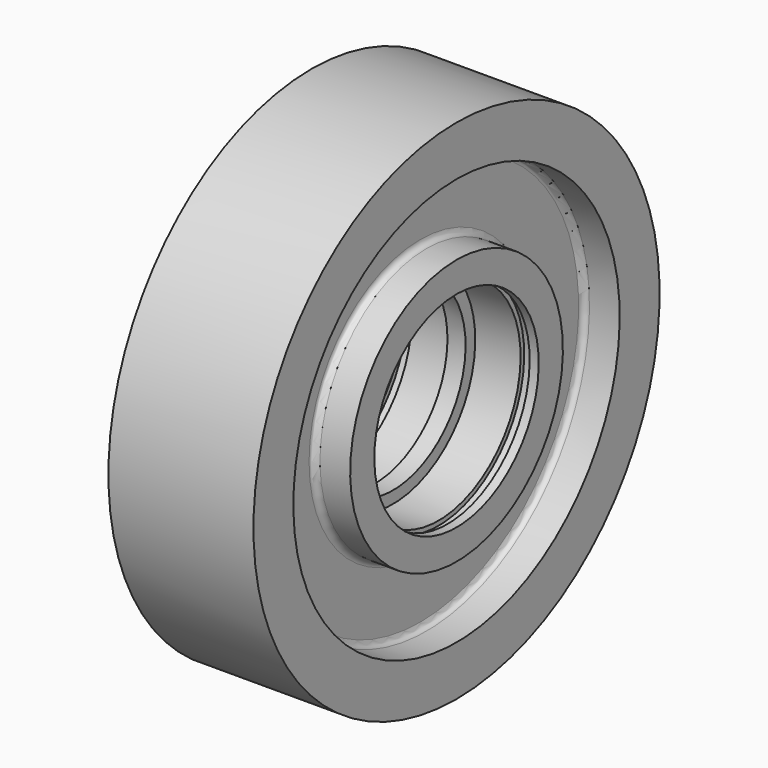
from build123d import *


with BuildPart() as f1:
    # F0 (on Front) → F1 (revolve)
    with BuildSketch(Plane.XZ):
        with BuildLine():
            Line((609.6, 2133.6), (0, 2133.6))
            Line((0, 2133.6), (-609.6, 2133.6))
            Line((-609.6, 2133.6), (-609.6, 1714.5))
            Line((-609.6, 1714.5), (-355.6, 1714.5))
            ThreePointArc((-355.6, 1714.5), (-319.678976, 1699.621024), (-304.8, 1663.7))
            Line((-304.8, 1663.7), (-304.8, 1168.4))
            ThreePointArc((-304.8, 1168.4), (-319.678976, 1132.478976), (-355.6, 1117.6))
            Line((-355.6, 1117.6), (-609.6, 1117.6))
            Line((-609.6, 1117.6), (-609.6, 863.6))
            Line((-609.6, 863.6), (-533.4, 863.6))
            Line((-533.4, 863.6), (-533.4, 901.7))
            Line((-533.4, 901.7), (-457.2, 901.7))
            Line((-457.2, 901.7), (-457.2, 863.6))
            Line((-457.2, 863.6), (-76.2, 863.6))
            Line((-76.2, 863.6), (-76.2, 762))
            Line((-76.2, 762), (0, 762))
            Line((0, 762), (76.2, 762))
            Line((76.2, 762), (76.2, 863.6))
            Line((76.2, 863.6), (457.2, 863.6))
            Line((457.2, 863.6), (457.2, 901.7))
            Line((457.2, 901.7), (533.4, 901.7))
            Line((533.4, 901.7), (533.4, 863.6))
            Line((533.4, 863.6), (609.6, 863.6))
            Line((609.6, 863.6), (609.6, 1117.6))
            Line((609.6, 1117.6), (355.6, 1117.6))
            ThreePointArc((355.6, 1117.6), (319.678976, 1132.478976), (304.8, 1168.4))
            Line((304.8, 1168.4), (304.8, 1663.7))
            ThreePointArc((304.8, 1663.7), (319.678976, 1699.621024), (355.6, 1714.5))
            Line((355.6, 1714.5), (609.6, 1714.5))
            Line((609.6, 1714.5), (609.6, 2133.6))
        make_face()
    revolve(axis=Axis((-304.8, 0, 0), (1, 0, 0)))


solid = f1.part
